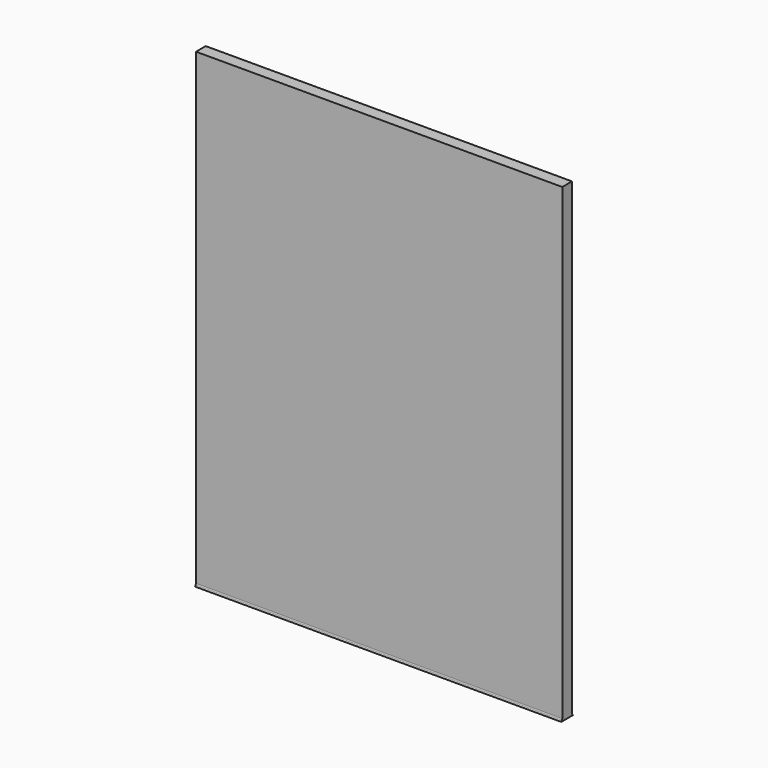
from build123d import *

# Parameters (mm, degrees)
F1_DEPTH  = 2500
F1_FACE_W = 2500
F1_FACE_H = 82.877408
F2_DEPTH  = 3110


with BuildPart() as f1:
    # F0 (on Right) → F1 (new body)
    with BuildSketch(Plane.YZ):
        with BuildLine():
            Line((-50, 0), (0, 0))
            Line((0, 0), (0, 100.967504))
            Line((0, 100.967504), (-41.438704, 100.967504))
            Line((-41.438704, 100.967504), (-41.438704, 16.750849))
            ThreePointArc((-41.438704, 16.750849), (-42.159935, 12.155549), (-44.254274, 8.002153))
            Line((-44.254274, 8.002153), (-50, 0))
        make_face()
        with BuildLine():
            Line((0, 100.967504), (0, 0))
            Line((0, 0), (50, 0))
            Line((50, 0), (44.254274, 8.002153))
            ThreePointArc((44.254274, 8.002153), (42.159935, 12.155549), (41.438704, 16.750849))
            Line((41.438704, 16.750849), (41.438704, 100.967504))
            Line((41.438704, 100.967504), (0, 100.967504))
        make_face()
    extrude(amount=F1_DEPTH)

    # F1_face (on face) → F2 (join)
    with BuildSketch(Plane(origin=(1250, 0, 100.967504), x_dir=(1, 0, 0), z_dir=(0, 0, 1))):
        Rectangle(F1_FACE_W, F1_FACE_H)
    extrude(amount=F2_DEPTH)


solid = f1.part
